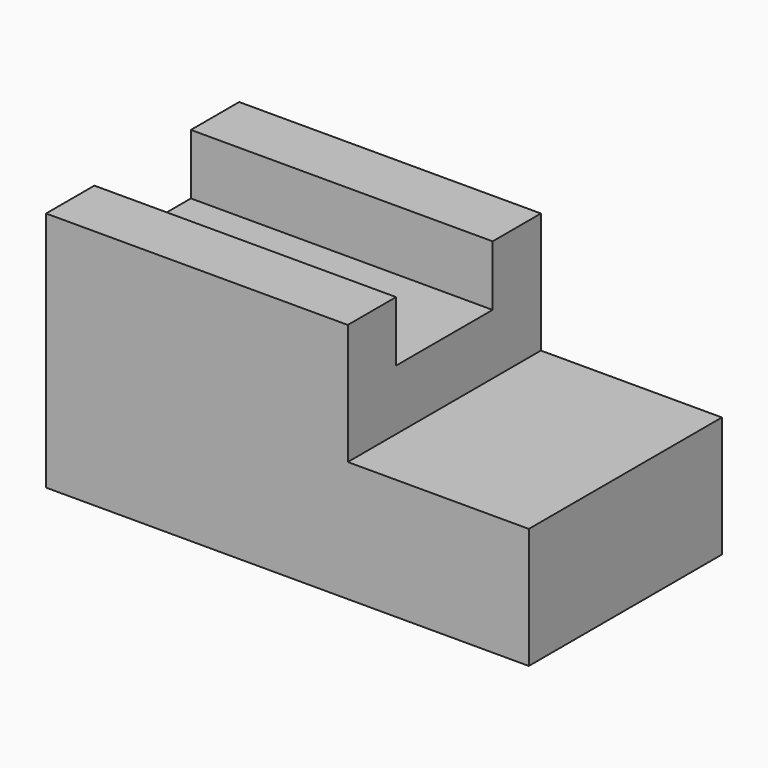
from build123d import *

# Parameters (mm, degrees)
F0_W     = 76.2
F0_H     = 50.8
F1_DEPTH = 101.6
F2_W     = 127
F2_H     = 50.8
F3_DEPTH = 25.4


with BuildPart() as f1:
    # F0 (on Front) → F1 (new body)
    with BuildSketch(Plane.XZ):
        Polygon((48.718035, 50.8), (-78.281965, 50.8), (-78.281965, -50.8), (48.718035, -50.8), (48.718035, 0), align=None)
        with Locations((86.818035, -25.4)):
            Rectangle(F0_W, F0_H)
    extrude(amount=F1_DEPTH)

    # F2 (on face) → F3 (cut)
    with BuildSketch(Plane.XY.offset(50.8)):
        with Locations((-14.781965, -50.8)):
            Rectangle(F2_W, F2_H)
    extrude(amount=-F3_DEPTH, mode=Mode.SUBTRACT)


solid = f1.part
